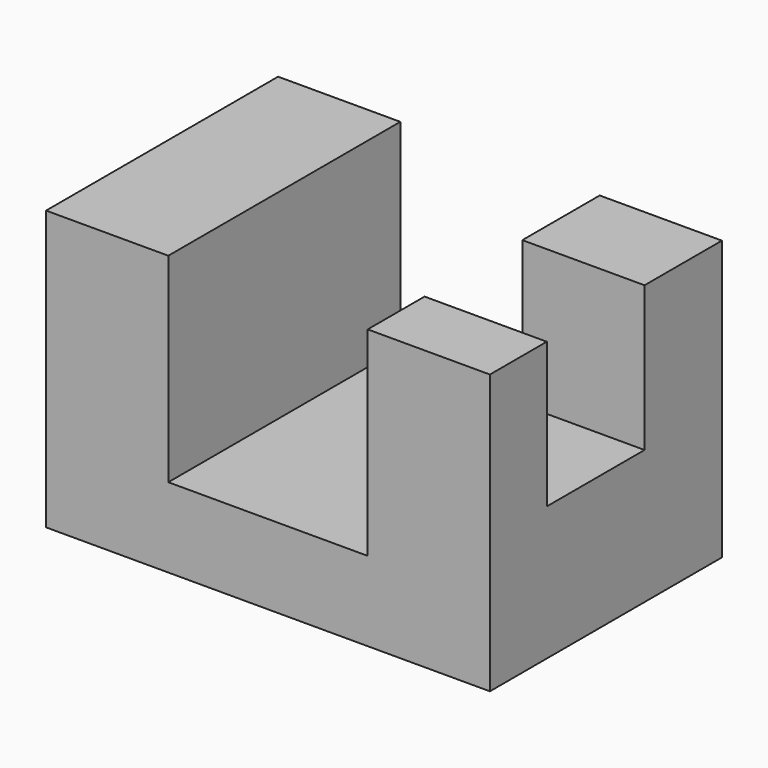
from build123d import *

# Parameters (mm, degrees)
F1_DEPTH      = 25.4
F1_DEPTH_BACK = 25.4
F2_W          = 21.4085327461
F2_H          = 21.4085327461
F3_DEPTH      = 25.4


with BuildPart() as f1:
    # F0 (on Front) → F1 (new body, two sides)
    with BuildSketch(Plane.XZ) as f1_sk:
        Polygon((0, 48.854034394), (0, 0), (77.7433076873, 0), (77.7433076873, 48.854034394), (56.3347749412, 48.854034394), (56.3347749412, 13.927792199), (21.4085327461, 13.927792199), (21.4085327461, 48.854034394), align=None)
    extrude(amount=F1_DEPTH)
    extrude(f1_sk.sketch, amount=-F1_DEPTH_BACK)

    # F2 (on face) → F3 (cut)
    with BuildSketch(Plane.XY.offset(48.854034394)):
        with Locations((67.0390413143, -2.2439309396)):
            Rectangle(F2_W, F2_H)
    extrude(amount=-F3_DEPTH, mode=Mode.SUBTRACT)


solid = f1.part
